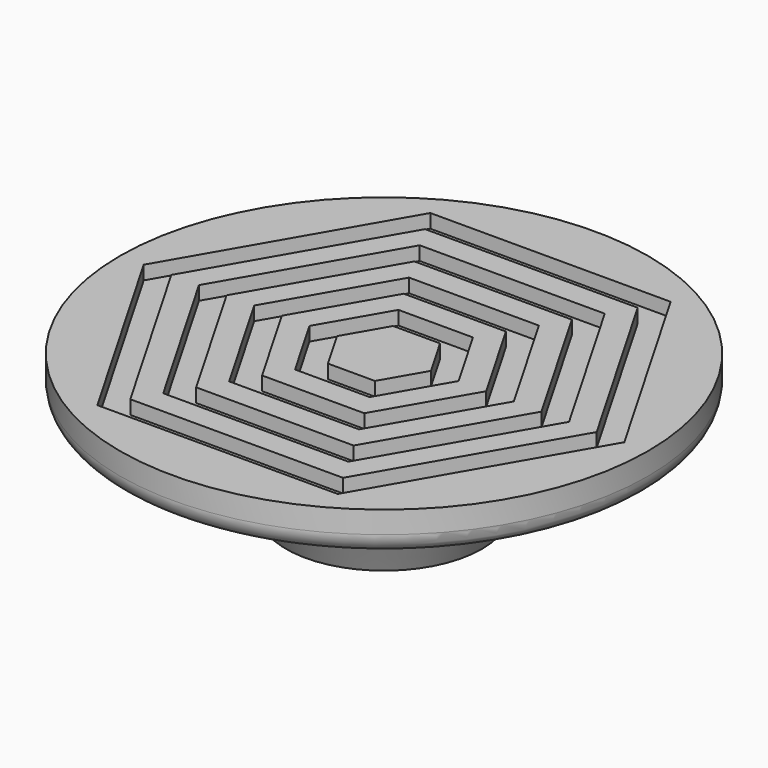
from build123d import *

# Parameters (mm, degrees)
F0_R     = 9.5631
F1_DEPTH = 1.524
F3_DEPTH = 0.5
F4_R     = 4.04495
F5_DEPTH = 3.556
F6_R     = 0.7242640687
F7_SIZE2 = 1
F7_SIZE  = 0.5


with BuildPart() as f1:
    # F0 (on Top) → F1 (new body)
    with BuildSketch(Plane.XY):
        Circle(F0_R)
    extrude(amount=F1_DEPTH)

    # F2 (on face) → F3 (cut)
    with BuildSketch(Plane.XY.offset(1.524)):
        Polygon((8.7007693222, 0), (4.3503846611, 7.5350872655), (-4.3503846611, 7.5350872655), (-8.7007693222, 0), (-4.3503846611, -7.5350872655), (4.3503846611, -7.5350872655), align=None)
        Polygon((-7.7007693222, 0), (-3.8503846611, 6.6690618617), (3.8503846611, 6.6690618617), (7.7007693222, 0), (3.8503846611, -6.6690618617), (-3.8503846611, -6.6690618617), align=None, mode=Mode.SUBTRACT)
        Polygon((3.3503846611, 5.8030364579), (-3.3503846611, 5.8030364579), (-6.7007693222, 0), (-3.3503846611, -5.8030364579), (3.3503846611, -5.8030364579), (6.7007693222, 0), align=None)
        Polygon((-5.7007693222, 0), (-2.8503846611, 4.9370110541), (2.8503846611, 4.9370110541), (5.7007693222, 0), (2.8503846611, -4.9370110541), (-2.8503846611, -4.9370110541), align=None, mode=Mode.SUBTRACT)
        Polygon((2.3503846611, 4.0709856503), (-2.3503846611, 4.0709856503), (-4.7007693222, 0), (-2.3503846611, -4.0709856503), (2.3503846611, -4.0709856503), (4.7007693222, 0), align=None)
        Polygon((-3.7007693222, 0), (-1.8503846611, 3.2049602465), (1.8503846611, 3.2049602465), (3.7007693222, 0), (1.8503846611, -3.2049602465), (-1.8503846611, -3.2049602465), align=None, mode=Mode.SUBTRACT)
        Polygon((1.3503846611, 2.3389348427), (-1.3503846611, 2.3389348427), (-2.7007693222, 0), (-1.3503846611, -2.3389348427), (1.3503846611, -2.3389348427), (2.7007693222, 0), align=None)
        Polygon((-1.7007693222, 0), (-0.8503846611, 1.472909439), (0.8503846611, 1.472909439), (1.7007693222, 0), (0.8503846611, -1.472909439), (-0.8503846611, -1.472909439), align=None, mode=Mode.SUBTRACT)
    extrude(amount=-F3_DEPTH, mode=Mode.SUBTRACT)

    # F4 (on face) → F5 (join)
    with BuildSketch(Plane(origin=(0, 0, 0), x_dir=(1, 0, 0), z_dir=(0, 0, -1))):
        Circle(F4_R)
    extrude(amount=F5_DEPTH)

    # F6
    f6_edges = [f1.edges().sort_by_distance(p)[0] for p in [
        (-9.5631, 0, 0),
    ]]
    fillet(f6_edges, radius=F6_R)

    # F7
    f7_edges = [f1.edges().sort_by_distance(p)[0] for p in [
        (-4.04495, 0, -3.556),
    ]]
    f7_side = f1.faces().sort_by_distance((0, 0, -3.556))[0]
    chamfer(f7_edges, length=F7_SIZE, length2=F7_SIZE2, reference=f7_side)


solid = f1.part
